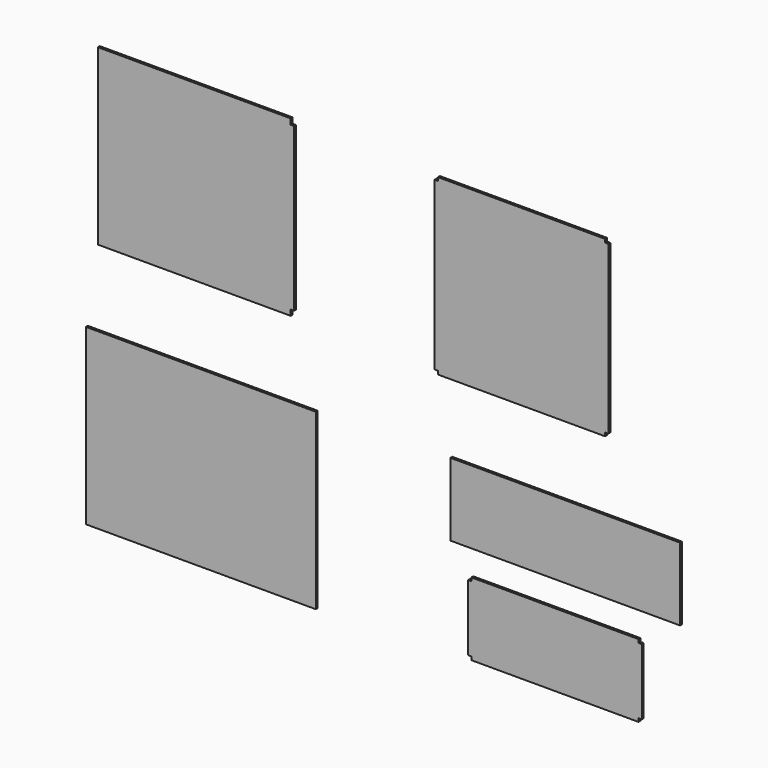
from build123d import *

# Parameters (mm, degrees)
F1_DEPTH = 5.3594
F3_DEPTH = 5.3594
F4_W     = 7.62
F4_H     = 7.62
F5_DEPTH = 5.3594
F7_DEPTH = 5.3594
F8_W     = 520.7
F8_H     = 165.1
F9_DEPTH = 5.3594


with BuildPart() as f1:
    # F0 (on Front) → F1 (new body)
    with BuildSketch(Plane.XZ):
        Polygon((53.515951, 350.097552), (-383.364049, 350.097552), (-383.364049, -43.602448), (53.515951, -43.602448), (53.515951, -30.902448), (61.135951, -30.902448), (61.135951, 337.397552), (53.515951, 337.397552), align=None)
    extrude(amount=F1_DEPTH)


with BuildPart() as f3:
    # F2 (on Front) → F3 (new body)
    with BuildSketch(Plane.XZ):
        Polygon((765.49283, 341.510952), (387.03283, 341.510952), (387.03283, 333.890952), (379.41283, 333.890952), (379.41283, -44.569048), (387.03283, -44.569048), (387.03283, -52.189048), (765.49283, -52.189048), (765.49283, -44.569048), (773.11283, -44.569048), (773.11283, 333.890952), (765.49283, 333.890952), align=None)
    extrude(amount=F3_DEPTH)


with BuildPart() as f5:
    # F4 (on Front) → F5 (new body)
    with BuildSketch(Plane.XZ):
        Polygon((102.713063, -216.384772), (-402.746937, -216.384772), (-402.746937, -224.004772), (-410.366937, -224.004772), (-410.366937, -602.464772), (-402.746937, -602.464772), (-402.746937, -610.084772), (102.713063, -610.084772), (102.713063, -602.464772), (110.333063, -602.464772), (110.333063, -224.004772), (102.713063, -224.004772), align=None)
        with Locations((-406.556937, -220.194772)):
            Rectangle(F4_W, F4_H)
        with Locations((-406.556937, -606.274772)):
            Rectangle(F4_W, F4_H)
        with Locations((106.523063, -606.274772)):
            Rectangle(F4_W, F4_H)
        with Locations((106.523063, -220.194772)):
            Rectangle(F4_W, F4_H)
    extrude(amount=F5_DEPTH)


with BuildPart() as f7:
    # F6 (on Front) → F7 (new body)
    with BuildSketch(Plane.XZ):
        Polygon((841.202832, -432.014801), (462.742832, -432.014801), (462.742832, -439.634801), (455.122832, -439.634801), (455.122832, -589.494801), (462.742832, -589.494801), (462.742832, -597.114801), (841.202832, -597.114801), (841.202832, -589.494801), (848.822832, -589.494801), (848.822832, -439.634801), (841.202832, -439.634801), align=None)
    extrude(amount=F7_DEPTH)


with BuildPart() as f9:
    # F8 (on Front) → F9 (new body)
    with BuildSketch(Plane.XZ):
        with Locations((675.392259, -291.617711)):
            Rectangle(F8_W, F8_H)
    extrude(amount=F9_DEPTH)


solid = Compound([f1.part, f3.part, f5.part, f7.part, f9.part])
